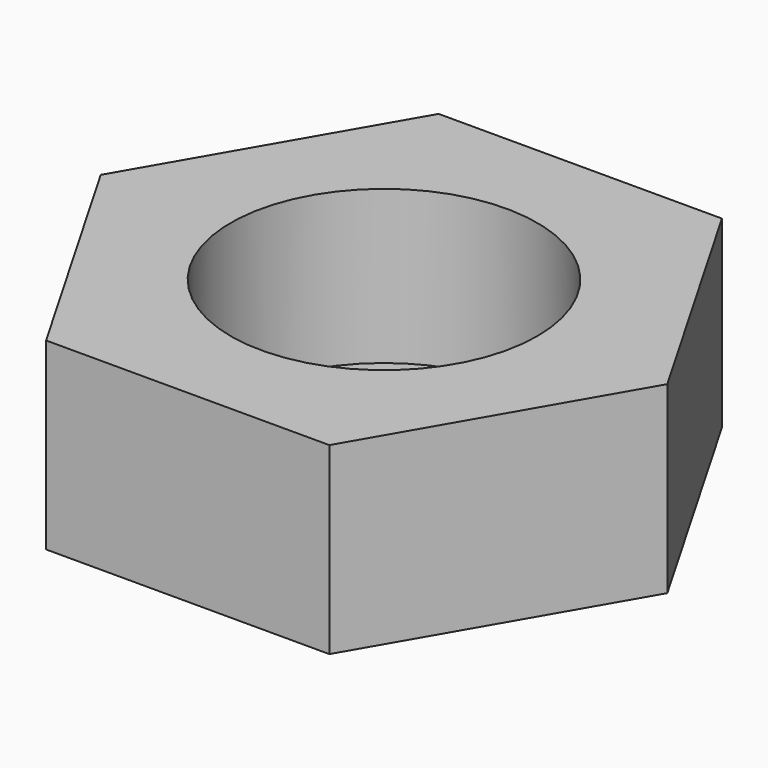
from build123d import *

# Parameters (mm, degrees)
F1_DEPTH = 30
F2_R     = 25
F3_DEPTH = 25


with BuildPart() as f1:
    # F0 (on Top) → F1 (new body)
    with BuildSketch(Plane.XY):
        Polygon((23.094011, 40), (-23.094011, 40), (-46.188022, 0), (-23.094011, -40), (23.094011, -40), (46.188022, 0), align=None)
    extrude(amount=F1_DEPTH)

    # F2 (on face) → F3 (cut)
    with BuildSketch(Plane.XY.offset(30)):
        Circle(F2_R)
    extrude(amount=-F3_DEPTH, mode=Mode.SUBTRACT)


solid = f1.part
